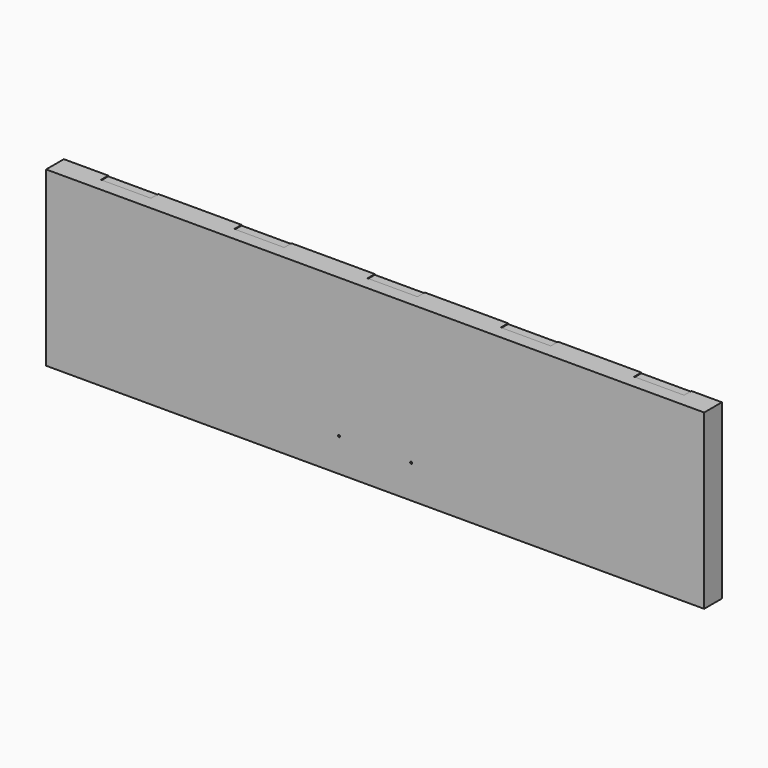
from build123d import *

# Parameters (mm, degrees)
F0_W           = 3009.9
F0_H           = 790.575
F1_DEPTH       = 101.6
F2_W           = 228.6
F2_H           = 41.91
F3_DEPTH       = 3.175
F5_D           = 9.525
F5_CSINK_D     = 19.8374
F5_CSINK_ANGLE = 82


with BuildPart() as f1:
    # F0 (on Front) → F1 (new body)
    with BuildSketch(Plane.XZ):
        Rectangle(F0_W, F0_H)
    extrude(amount=F1_DEPTH)

    # F2 (on face) → F3 (cut)
    with BuildSketch(Plane.XY.offset(395.2875)):
        with Locations((-1187.45, -20.955)):
            Rectangle(F2_W, F2_H)
        with Locations((-577.85, -20.955)):
            Rectangle(F2_W, F2_H)
        with Locations((31.75, -20.955)):
            Rectangle(F2_W, F2_H)
        with Locations((641.35, -20.955)):
            Rectangle(F2_W, F2_H)
        with Locations((1250.95, -20.955)):
            Rectangle(F2_W, F2_H)
    extrude(amount=-F3_DEPTH, mode=Mode.SUBTRACT)

    # F5 (through all)
    with Locations(Plane(origin=(0, 0, 0), x_dir=(-1, 0, 0), z_dir=(0, 1, 0))):
        with Locations((-165.1, -242.8875), (165.1, -242.8875)):
            CounterSinkHole(F5_D / 2, F5_CSINK_D / 2, counter_sink_angle=F5_CSINK_ANGLE)


solid = f1.part
